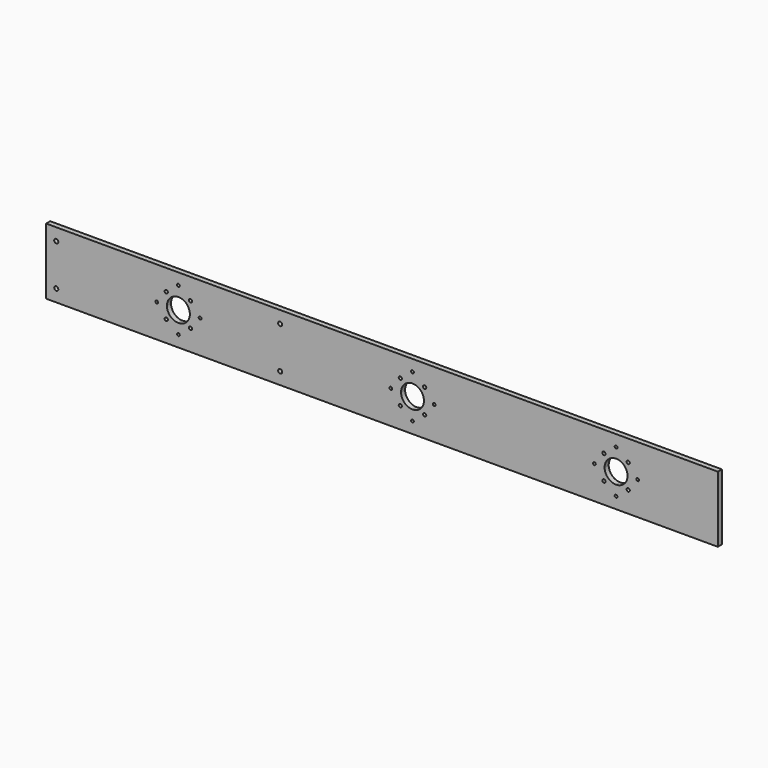
from build123d import *

# Parameters (mm, degrees)
F0_W     = 838.2
F0_H     = 82.55
F1_DEPTH = 6.35
F2_R     = 1.7272
F3_DEPTH = 6.35
F5_DEPTH = 6.35


with BuildPart() as f1:
    # F0 (on Front) → F1 (new body)
    with BuildSketch(Plane.XZ):
        Rectangle(F0_W, F0_H)
    extrude(amount=F1_DEPTH)

    # F2 (on face) → F3 (cut, through all)
    with BuildSketch(Plane.XZ.offset(6.35)):
        with BuildLine():
            Line((-239.7125, 0), (-254, 0))
            Line((-254, 0), (-254, -14.2875))
            ThreePointArc((-254, -14.2875), (-243.8972118638, -10.1027881362), (-239.7125, 0))
        make_face()
        with BuildLine():
            Line((-254, 14.2875), (-254, 0))
            Line((-254, 0), (-239.7125, 0))
            ThreePointArc((-239.7125, 0), (-243.8972118638, 10.1027881362), (-254, 14.2875))
        make_face()
        with BuildLine():
            ThreePointArc((-254, 14.2875), (-264.1027881362, 10.1027881362), (-268.2875, 0))
            Line((-268.2875, 0), (-254, 0))
            Line((-254, 0), (-254, 14.2875))
        make_face()
        with BuildLine():
            Line((-254, 0), (-268.2875, 0))
            ThreePointArc((-268.2875, 0), (-264.1027881362, -10.1027881362), (-254, -14.2875))
            Line((-254, -14.2875), (-254, 0))
        make_face()
        with BuildLine():
            Line((-269.15745, -15.15745), (-269.15745, -13.13815))
            ThreePointArc((-269.15745, -13.13815), (-270.5853107233, -16.5853107232), (-267.13815, -15.15745))
            Line((-267.13815, -15.15745), (-269.15745, -15.15745))
        make_face()
        with BuildLine():
            ThreePointArc((-267.13815, -15.15745), (-267.7295892767, -13.7295892768), (-269.15745, -13.13815))
            Line((-269.15745, -13.13815), (-269.15745, -15.15745))
            Line((-269.15745, -15.15745), (-267.13815, -15.15745))
        make_face()
        with BuildLine():
            ThreePointArc((-252.2728, -27.051), (-252.7786851675, -25.8296851675), (-254, -25.3238))
            ThreePointArc((-254, -25.3238), (-255.2213148325, -28.2723148325), (-252.2728, -27.051))
        make_face()
        with BuildLine():
            Line((-238.84255, -15.15745), (-240.86185, -15.15745))
            ThreePointArc((-240.86185, -15.15745), (-238.84255, -17.17675), (-236.82325, -15.15745))
            ThreePointArc((-236.82325, -15.15745), (-237.4146892767, -13.7295892768), (-238.84255, -13.13815))
            Line((-238.84255, -13.13815), (-238.84255, -15.15745))
        make_face()
        with BuildLine():
            ThreePointArc((-238.84255, -13.13815), (-240.2704107232, -13.7295892767), (-240.86185, -15.15745))
            Line((-240.86185, -15.15745), (-238.84255, -15.15745))
            Line((-238.84255, -15.15745), (-238.84255, -13.13815))
        make_face()
        with BuildLine():
            ThreePointArc((-236.82325, 15.15745), (-238.84255, 17.17675), (-240.86185, 15.15745))
            Line((-240.86185, 15.15745), (-238.84255, 15.15745))
            Line((-238.84255, 15.15745), (-238.84255, 13.13815))
            ThreePointArc((-238.84255, 13.13815), (-237.4146892767, 13.7295892768), (-236.82325, 15.15745))
        make_face()
        with BuildLine():
            Line((-238.84255, 15.15745), (-240.86185, 15.15745))
            ThreePointArc((-240.86185, 15.15745), (-240.2704107232, 13.7295892767), (-238.84255, 13.13815))
            Line((-238.84255, 13.13815), (-238.84255, 15.15745))
        make_face()
        with BuildLine():
            ThreePointArc((-225.2218, 0), (-226.949, 1.7272), (-228.6762, 0))
            ThreePointArc((-228.6762, 0), (-226.949, -1.7272), (-225.2218, 0))
        make_face()
        with BuildLine():
            ThreePointArc((-252.2728, 27.051), (-255.2213148325, 28.2723148325), (-254, 25.3238))
            ThreePointArc((-254, 25.3238), (-252.7786851675, 25.8296851675), (-252.2728, 27.051))
        make_face()
        with BuildLine():
            Line((-269.15745, 15.15745), (-269.15745, 13.13815))
            ThreePointArc((-269.15745, 13.13815), (-267.7295892767, 13.7295892768), (-267.13815, 15.15745))
            Line((-267.13815, 15.15745), (-269.15745, 15.15745))
        make_face()
        with BuildLine():
            ThreePointArc((-267.13815, 15.15745), (-270.5853107233, 16.5853107232), (-269.15745, 13.13815))
            Line((-269.15745, 13.13815), (-269.15745, 15.15745))
            Line((-269.15745, 15.15745), (-267.13815, 15.15745))
        make_face()
        with BuildLine():
            ThreePointArc((-282.7782, 0), (-281.051, -1.7272), (-279.3238, 0))
            Line((-279.3238, 0), (-282.7782, 0))
        make_face()
        with BuildLine():
            Line((-282.7782, 0), (-279.3238, 0))
            ThreePointArc((-279.3238, 0), (-281.051, 1.7272), (-282.7782, 0))
        make_face()
        with BuildLine():
            Line((38.1, 0), (38.1, -14.2875))
            ThreePointArc((38.1, -14.2875), (48.2027881362, -10.1027881362), (52.3875, 0))
            Line((52.3875, 0), (38.1, 0))
        make_face()
        with BuildLine():
            ThreePointArc((23.8125, 0), (27.9972118638, -10.1027881362), (38.1, -14.2875))
            Line((38.1, -14.2875), (38.1, 0))
            Line((38.1, 0), (23.8125, 0))
        make_face()
        with BuildLine():
            Line((38.1, 0), (38.1, 14.2875))
            ThreePointArc((38.1, 14.2875), (27.9972118638, 10.1027881362), (23.8125, 0))
            Line((23.8125, 0), (38.1, 0))
        make_face()
        with BuildLine():
            ThreePointArc((52.3875, 0), (48.2027881362, 10.1027881362), (38.1, 14.2875))
            Line((38.1, 14.2875), (38.1, 0))
            Line((38.1, 0), (52.3875, 0))
        make_face()
        with BuildLine():
            ThreePointArc((55.27675, 15.15745), (53.25745, 17.17675), (51.23815, 15.15745))
            Line((51.23815, 15.15745), (53.25745, 15.15745))
            Line((53.25745, 15.15745), (53.25745, 13.13815))
            ThreePointArc((53.25745, 13.13815), (54.6853107233, 13.7295892768), (55.27675, 15.15745))
        make_face()
        with BuildLine():
            Line((53.25745, 15.15745), (51.23815, 15.15745))
            ThreePointArc((51.23815, 15.15745), (51.8295892768, 13.7295892767), (53.25745, 13.13815))
            Line((53.25745, 13.13815), (53.25745, 15.15745))
        make_face()
        with BuildLine():
            Line((38.1, 27.051), (38.1, 28.7782))
            ThreePointArc((38.1, 28.7782), (36.3728, 27.051), (38.1, 25.3238))
            Line((38.1, 25.3238), (38.1, 27.051))
        make_face()
        with BuildLine():
            ThreePointArc((39.8272, 27.051), (39.3213148325, 28.2723148325), (38.1, 28.7782))
            Line((38.1, 28.7782), (38.1, 27.051))
            Line((38.1, 27.051), (38.1, 25.3238))
            ThreePointArc((38.1, 25.3238), (39.3213148325, 25.8296851675), (39.8272, 27.051))
        make_face()
        with BuildLine():
            Line((22.94255, 15.15745), (24.96185, 15.15745))
            ThreePointArc((24.96185, 15.15745), (21.5146892767, 16.5853107232), (22.94255, 13.13815))
            Line((22.94255, 13.13815), (22.94255, 15.15745))
        make_face()
        with BuildLine():
            ThreePointArc((22.94255, 13.13815), (24.3704107233, 13.7295892768), (24.96185, 15.15745))
            Line((24.96185, 15.15745), (22.94255, 15.15745))
            Line((22.94255, 15.15745), (22.94255, 13.13815))
        make_face()
        with BuildLine():
            ThreePointArc((22.94255, -13.13815), (21.5146892767, -16.5853107232), (24.96185, -15.15745))
            Line((24.96185, -15.15745), (22.94255, -15.15745))
            Line((22.94255, -15.15745), (22.94255, -13.13815))
        make_face()
        with BuildLine():
            Line((22.94255, -15.15745), (24.96185, -15.15745))
            ThreePointArc((24.96185, -15.15745), (24.3704107233, -13.7295892768), (22.94255, -13.13815))
            Line((22.94255, -13.13815), (22.94255, -15.15745))
        make_face()
        with BuildLine():
            ThreePointArc((38.1, -25.3238), (36.3728, -27.051), (38.1, -28.7782))
            Line((38.1, -28.7782), (38.1, -27.051))
            Line((38.1, -27.051), (38.1, -25.3238))
        make_face()
        with BuildLine():
            Line((38.1, -27.051), (38.1, -28.7782))
            ThreePointArc((38.1, -28.7782), (39.3213148325, -28.2723148325), (39.8272, -27.051))
            ThreePointArc((39.8272, -27.051), (39.3213148325, -25.8296851675), (38.1, -25.3238))
            Line((38.1, -25.3238), (38.1, -27.051))
        make_face()
        with BuildLine():
            Line((53.25745, -15.15745), (51.23815, -15.15745))
            ThreePointArc((51.23815, -15.15745), (53.25745, -17.17675), (55.27675, -15.15745))
            ThreePointArc((55.27675, -15.15745), (54.6853107233, -13.7295892768), (53.25745, -13.13815))
            Line((53.25745, -13.13815), (53.25745, -15.15745))
        make_face()
        with BuildLine():
            ThreePointArc((53.25745, -13.13815), (51.8295892768, -13.7295892767), (51.23815, -15.15745))
            Line((51.23815, -15.15745), (53.25745, -15.15745))
            Line((53.25745, -15.15745), (53.25745, -13.13815))
        make_face()
        with Locations((11.049, 0.1607450395)):
            Circle(F2_R)
        with BuildLine():
            ThreePointArc((66.8782, 0), (65.151, 1.7272), (63.4238, 0))
            ThreePointArc((63.4238, 0), (65.151, -1.7272), (66.8782, 0))
        make_face()
        with BuildLine():
            ThreePointArc((292.1, -14.2875), (302.2027881362, -10.1027881362), (306.3875, 0))
            Line((306.3875, 0), (292.1, 0))
            Line((292.1, 0), (292.1, -14.2875))
        make_face()
        with BuildLine():
            Line((292.1, 0), (306.3875, 0))
            ThreePointArc((306.3875, 0), (302.2027881362, 10.1027881362), (292.1, 14.2875))
            Line((292.1, 14.2875), (292.1, 0))
        make_face()
        with BuildLine():
            Line((277.8125, 0), (292.1, 0))
            Line((292.1, 0), (292.1, 14.2875))
            ThreePointArc((292.1, 14.2875), (281.9972118638, 10.1027881362), (277.8125, 0))
        make_face()
        with BuildLine():
            Line((292.1, -14.2875), (292.1, 0))
            Line((292.1, 0), (277.8125, 0))
            ThreePointArc((277.8125, 0), (281.9972118638, -10.1027881362), (292.1, -14.2875))
        make_face()
        with BuildLine():
            ThreePointArc((309.27675, -15.15745), (308.6853107233, -13.7295892768), (307.25745, -13.13815))
            Line((307.25745, -13.13815), (307.25745, -15.15745))
            Line((307.25745, -15.15745), (305.23815, -15.15745))
            ThreePointArc((305.23815, -15.15745), (307.25745, -17.17675), (309.27675, -15.15745))
        make_face()
        with BuildLine():
            Line((307.25745, -15.15745), (307.25745, -13.13815))
            ThreePointArc((307.25745, -13.13815), (305.8295892768, -13.7295892767), (305.23815, -15.15745))
            Line((305.23815, -15.15745), (307.25745, -15.15745))
        make_face()
        with BuildLine():
            ThreePointArc((293.8272, -27.051), (293.3213148325, -25.8296851675), (292.1, -25.3238))
            ThreePointArc((292.1, -25.3238), (290.8786851675, -28.2723148325), (293.8272, -27.051))
        make_face()
        with BuildLine():
            ThreePointArc((317.4238, 0), (319.151, -1.7272), (320.8782, 0))
            Line((320.8782, 0), (317.4238, 0))
        make_face()
        with BuildLine():
            Line((317.4238, 0), (320.8782, 0))
            ThreePointArc((320.8782, 0), (319.151, 1.7272), (317.4238, 0))
        make_face()
        with BuildLine():
            Line((307.25745, 15.15745), (307.25745, 13.13815))
            ThreePointArc((307.25745, 13.13815), (308.6853107233, 13.7295892768), (309.27675, 15.15745))
            ThreePointArc((309.27675, 15.15745), (307.25745, 17.17675), (305.23815, 15.15745))
            Line((305.23815, 15.15745), (307.25745, 15.15745))
        make_face()
        with BuildLine():
            ThreePointArc((305.23815, 15.15745), (305.8295892768, 13.7295892767), (307.25745, 13.13815))
            Line((307.25745, 13.13815), (307.25745, 15.15745))
            Line((307.25745, 15.15745), (305.23815, 15.15745))
        make_face()
        with BuildLine():
            ThreePointArc((293.8272, 27.051), (290.8786851675, 28.2723148325), (292.1, 25.3238))
            ThreePointArc((292.1, 25.3238), (293.3213148325, 25.8296851675), (293.8272, 27.051))
        make_face()
        with BuildLine():
            ThreePointArc((276.94255, 13.13815), (278.3704107233, 13.7295892768), (278.96185, 15.15745))
            Line((278.96185, 15.15745), (276.94255, 15.15745))
            Line((276.94255, 15.15745), (276.94255, 13.13815))
        make_face()
        with BuildLine():
            Line((276.94255, 15.15745), (278.96185, 15.15745))
            ThreePointArc((278.96185, 15.15745), (275.5146892767, 16.5853107232), (276.94255, 13.13815))
            Line((276.94255, 13.13815), (276.94255, 15.15745))
        make_face()
        with BuildLine():
            ThreePointArc((276.94255, -13.13815), (275.5146892767, -16.5853107232), (278.96185, -15.15745))
            Line((278.96185, -15.15745), (276.94255, -15.15745))
            Line((276.94255, -15.15745), (276.94255, -13.13815))
        make_face()
        with BuildLine():
            Line((276.94255, -15.15745), (278.96185, -15.15745))
            ThreePointArc((278.96185, -15.15745), (278.3704107233, -13.7295892768), (276.94255, -13.13815))
            Line((276.94255, -13.13815), (276.94255, -15.15745))
        make_face()
        with Locations((265.049, 0)):
            Circle(F2_R)
    extrude(amount=-F3_DEPTH, mode=Mode.SUBTRACT)

    # F4 (on face) → F5 (cut, through all)
    with BuildSketch(Plane.XZ.offset(6.35)):
        with BuildLine():
            ThreePointArc((-403.86, 26.035), (-404.6039487758, 27.8310512242), (-406.4, 28.575))
            Line((-406.4, 28.575), (-406.4, 23.495))
            ThreePointArc((-406.4, 23.495), (-404.6039487758, 24.2389487758), (-403.86, 26.035))
        make_face()
        with BuildLine():
            ThreePointArc((-403.86, -26.035), (-404.6039487758, -24.2389487758), (-406.4, -23.495))
            Line((-406.4, -23.495), (-406.4, -28.575))
            ThreePointArc((-406.4, -28.575), (-404.6039487758, -27.8310512242), (-403.86, -26.035))
        make_face()
        with BuildLine():
            Line((-406.4, -28.575), (-406.4, -23.495))
            ThreePointArc((-406.4, -23.495), (-408.94, -26.035), (-406.4, -28.575))
        make_face()
        with BuildLine():
            Line((-406.4, 23.495), (-406.4, 28.575))
            ThreePointArc((-406.4, 28.575), (-408.94, 26.035), (-406.4, 23.495))
        make_face()
        with BuildLine():
            ThreePointArc((-124.46, 26.035), (-125.2039487758, 27.8310512242), (-127, 28.575))
            Line((-127, 28.575), (-127, 23.495))
            ThreePointArc((-127, 23.495), (-125.2039487758, 24.2389487758), (-124.46, 26.035))
        make_face()
        with BuildLine():
            ThreePointArc((-124.46, -26.035), (-125.2039487758, -24.2389487758), (-127, -23.495))
            Line((-127, -23.495), (-127, -28.575))
            ThreePointArc((-127, -28.575), (-125.2039487758, -27.8310512242), (-124.46, -26.035))
        make_face()
        with BuildLine():
            Line((-127, -28.575), (-127, -23.495))
            ThreePointArc((-127, -23.495), (-129.54, -26.035), (-127, -28.575))
        make_face()
        with BuildLine():
            Line((-127, 23.495), (-127, 28.575))
            ThreePointArc((-127, 28.575), (-129.54, 26.035), (-127, 23.495))
        make_face()
    extrude(amount=-F5_DEPTH, mode=Mode.SUBTRACT)


solid = f1.part
